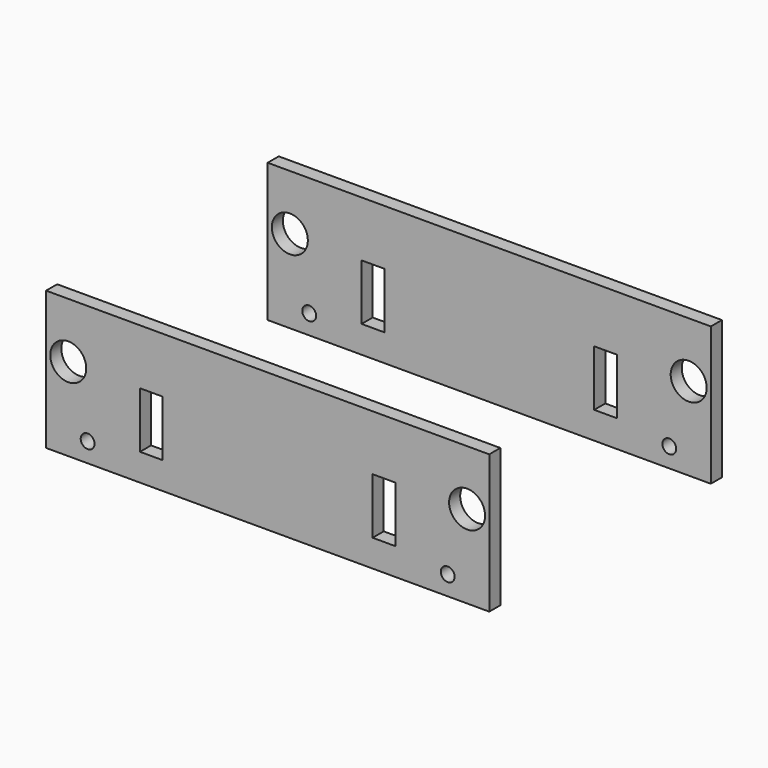
from build123d import *

# Parameters (mm, degrees)
F0_W     = 160
F0_H     = 50
F0_R     = 2.5
F0_W_2   = 8.2
F0_H_2   = 20.2
F0_R_2   = 6.5
F1_DEPTH = 5


with BuildPart() as f1:
    # F0 (on Front) → F1 (new body)
    with BuildSketch(Plane.XZ):
        with Locations((25.466382, -9.199139)):
            Rectangle(F0_W, F0_H)
        with Locations((-39.533618, -27.199139)):
            Circle(F0_R, mode=Mode.SUBTRACT)
        with Locations((-16.533618, -14.299139)):
            Rectangle(F0_W_2, F0_H_2, mode=Mode.SUBTRACT)
        with Locations((90.466382, -27.199139)):
            Circle(F0_R, mode=Mode.SUBTRACT)
        with Locations((67.466382, -14.299139)):
            Rectangle(F0_W_2, F0_H_2, mode=Mode.SUBTRACT)
        with Locations((-46.533618, -4.199139)):
            Circle(F0_R_2, mode=Mode.SUBTRACT)
        with Locations((97.466382, -4.199139)):
            Circle(F0_R_2, mode=Mode.SUBTRACT)
    extrude(amount=F1_DEPTH)


with BuildPart() as f2_1:
    # F2: copy of F1
    add(f1.part.moved(Location((0, 100, 0))))


solid = Compound([f1.part, f2_1.part])
